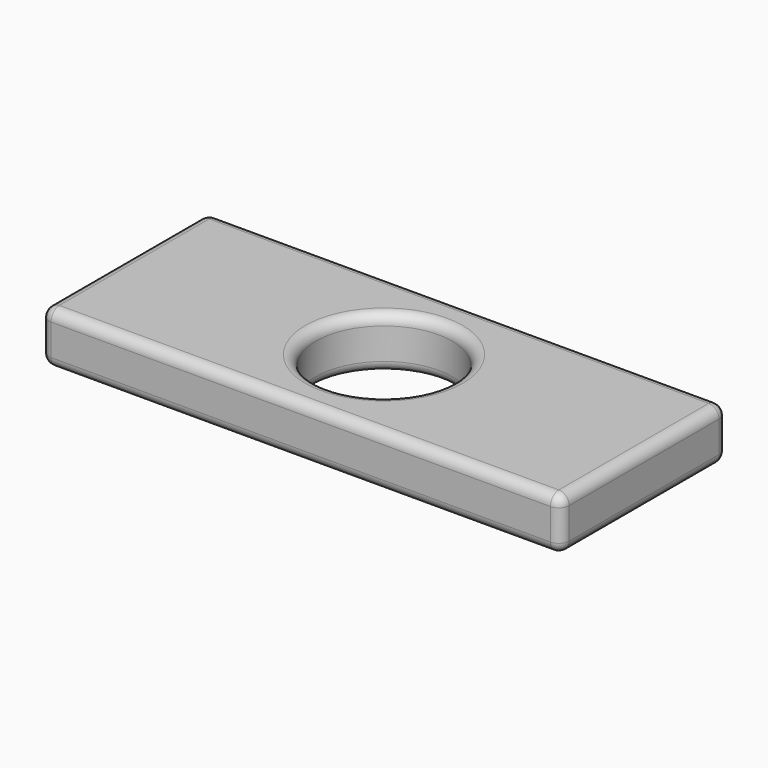
from build123d import *

# Parameters (mm, degrees)
F0_W     = 254
F0_H     = 101.6
F0_R     = 33.310406
F1_DEPTH = 12.7
F2_R     = 5.08
F3_R     = 5.08


with BuildPart() as f1:
    # F0 (on Top) → F1 (new body, symmetric)
    with BuildSketch(Plane.XY):
        Rectangle(F0_W, F0_H)
        Circle(F0_R, mode=Mode.SUBTRACT)
    extrude(amount=F1_DEPTH, both=True)

    # F2
    f2_edges = [f1.edges().sort_by_distance(p)[0] for p in [
        (-33.310406, 0, 12.7),
    ]]
    fillet(f2_edges, radius=F2_R)

    # F3
    f3_edges = [f1.edges().sort_by_distance(p)[0] for p in [
        (0, -50.8, 12.7),
        (0, 50.8, 12.7),
        (-127, 0, 12.7),
        (127, 0, 12.7),
        (127, 50.8, 0),
        (127, 0, -12.7),
        (0, 50.8, -12.7),
        (0, -50.8, -12.7),
        (-33.310406, 0, -12.7),
        (127, -50.8, 0),
        (-127, -50.8, 0),
        (-127, 50.8, 0),
        (-127, 0, -12.7),
    ]]
    fillet(f3_edges, radius=F3_R)


solid = f1.part
